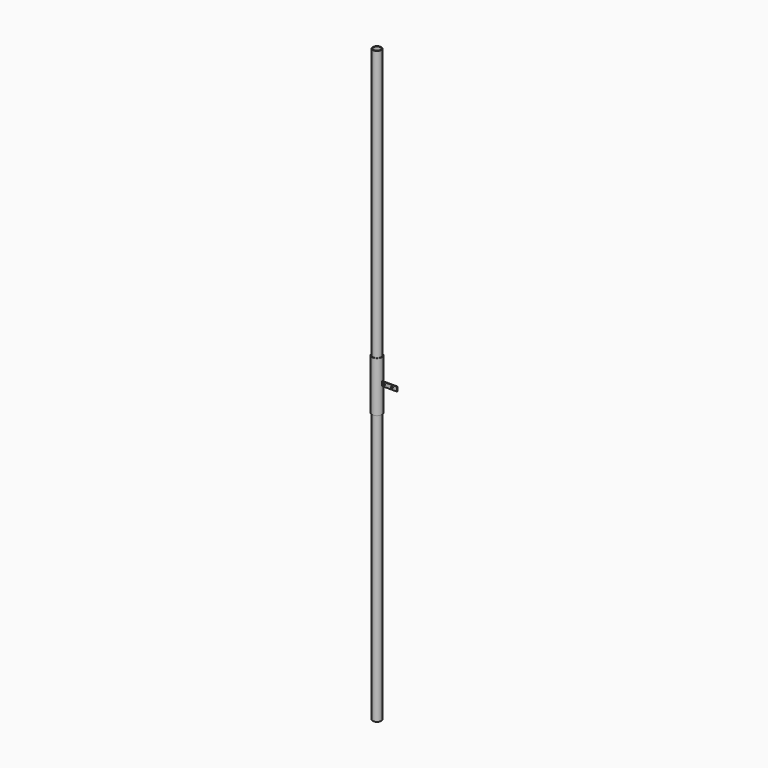
from build123d import *

# Parameters (mm, degrees)
F0_R     = 25
F0_R_2   = 21
F1_DEPTH = 1750
F2_R     = 30.15
F2_R_2   = 27.65
F3_DEPTH = 150
F4_R     = 5.5
F5_DEPTH = 2


with BuildPart() as f1:
    # F0 (on Top) → F1 (new body, symmetric)
    with BuildSketch(Plane.XY):
        Circle(F0_R)
        Circle(F0_R_2, mode=Mode.SUBTRACT)
    extrude(amount=F1_DEPTH, both=True)


with BuildPart() as f3:
    # F2 (on Top) → F3 (new body, symmetric)
    with BuildSketch(Plane.XY):
        Circle(F2_R)
        Circle(F2_R_2, mode=Mode.SUBTRACT)
    extrude(amount=F3_DEPTH, both=True)


with BuildPart() as f5:
    # F4 (on Front) → F5 (new body, symmetric)
    with BuildSketch(Plane.XZ):
        Polygon((3.069614, 25), (0, 0), (120, 0), (120, 25), align=None)
        with Locations((45, 12.5)):
            Circle(F4_R, mode=Mode.SUBTRACT)
        with Locations((90, 12.5)):
            Circle(F4_R, mode=Mode.SUBTRACT)
    extrude(amount=F5_DEPTH, both=True)


solid = Compound([f1.part, f3.part, f5.part])
